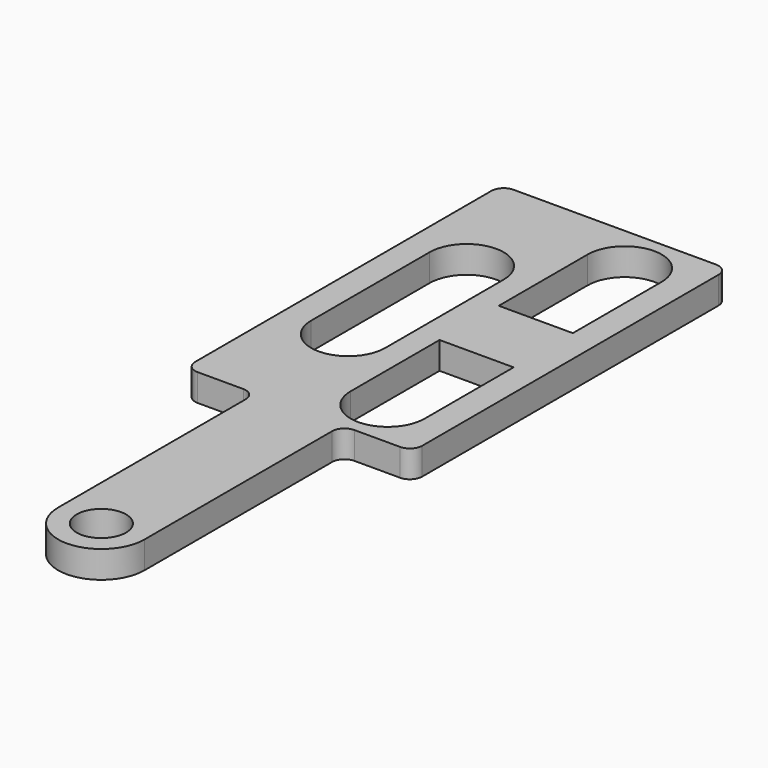
from build123d import *

# Parameters (mm, degrees)
PAD_DEPTH     = 2.2
FILLET_R      = 1
SKETCH001_R   = 2
SKETCH001_R_2 = 1
POCKET_DEPTH  = 5


with BuildPart() as part:
    # Sketch → Pad (new body)
    with BuildSketch(Plane.XY):
        with BuildLine():
            Line((-9.2, 16), (9.2, 16))
            Line((9.2, 16), (9.2, -16))
            Line((9.2, -16), (4.5, -16))
            Line((4.5, -16), (4.5, -17))
            Line((4.5, -17), (3.5, -17))
            Line((3.5, -17), (3.5, -36))
            ThreePointArc((-3.5, -36), (0, -39.500021), (3.5, -36))
            Line((-3.5, -36), (-3.5, -17))
            Line((-3.5, -17), (-4.5, -17))
            Line((-4.5, -17), (-4.5, -16))
            Line((-4.5, -16), (-9.2, -16))
            Line((-9.2, -16), (-9.2, 16))
        make_face()
    extrude(amount=PAD_DEPTH)

    # Fillet
    fillet_edges = [part.edges().sort_by_distance(p)[0] for p in [
        (-9.2, 16, 1.1),
        (9.2, 16, 1.1),
        (9.2, -16, 1.1),
        (-9.2, -16, 1.1),
    ]]
    fillet(fillet_edges, radius=FILLET_R)

    # Sketch001 (on DatumPlane) → Pocket (cut)
    with BuildSketch(Plane.XY.offset(2.2)):
        with Locations((0, -36)):
            Circle(SKETCH001_R)
        with Locations((-4.5, -17)):
            Circle(SKETCH001_R_2)
        with Locations((4.5, -17)):
            Circle(SKETCH001_R_2)
        with BuildLine():
            ThreePointArc((-1, 6.00001), (-4.000005, 9.000001), (-7, 6))
            Line((-7, -6), (-7, 6))
            ThreePointArc((-7, -6), (-3.999995, -8.999997), (-1, -5.99999))
            Line((-1, -5.99999), (-1, 6.00001))
        make_face()
        with BuildLine():
            Line((1, 12), (1, 3))
            Line((1, 3), (7, 3))
            Line((7, 3), (7, 12))
            ThreePointArc((7, 12), (4, 15), (1, 12))
        make_face()
        with BuildLine():
            Line((1, -12), (1, -3))
            Line((1, -3), (7, -3))
            Line((7, -3), (7, -12))
            ThreePointArc((1, -12), (4, -15), (7, -12))
        make_face()
    extrude(amount=-POCKET_DEPTH, mode=Mode.SUBTRACT)


solid = part.part
